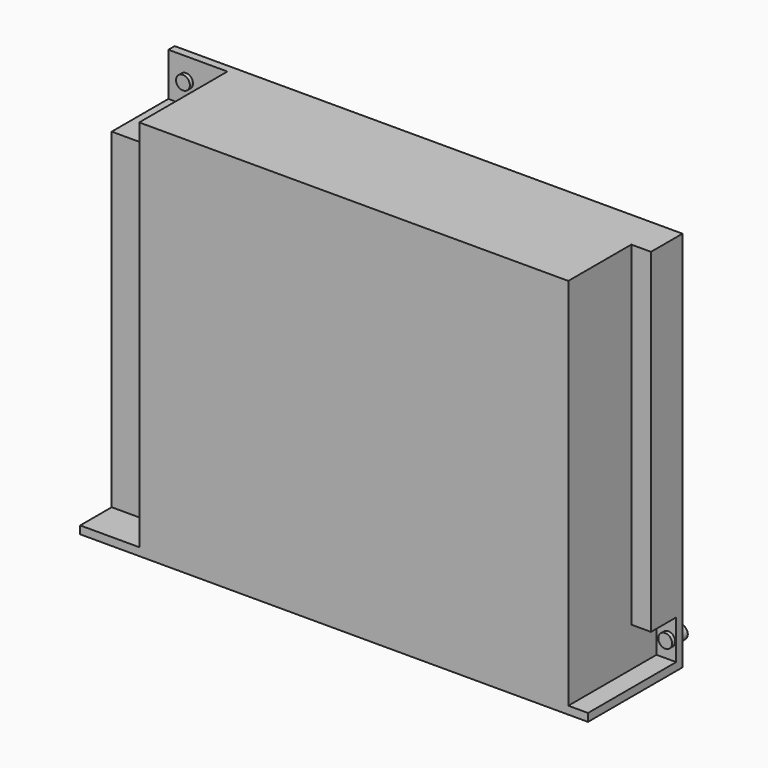
from build123d import *

# Parameters (mm, degrees)
SKETCH_W          = 129
SKETCH_H          = 97
PAD_DEPTH         = 30
BOX_W             = 15
BOX_H             = 95
BOX_DEPTH         = 10
BOX001_W          = 15
BOX001_H          = 11
BOX001_DEPTH      = 28
BOX002_W          = 5
BOX002_H          = 10
BOX002_DEPTH      = 28
BOX003_W          = 5
BOX003_H          = 85
BOX003_DEPTH      = 20
CYLINDER_R        = 1.75
CYLINDER_DEPTH    = 5
CYLINDER001_R     = 1.75
CYLINDER001_DEPTH = 5
CYLINDER002_R     = 1.75
CYLINDER002_DEPTH = 5
CYLINDER003_R     = 1.75
CYLINDER003_DEPTH = 5


with BuildPart() as part:
    # Sketch → Pad (new body)
    with BuildSketch(Plane.XZ):
        with Locations((64.5, 48.5)):
            Rectangle(SKETCH_W, SKETCH_H)
    extrude(amount=PAD_DEPTH)

    # Box → Box (cut)
    with BuildSketch(Plane(origin=(0, -20, 2), x_dir=(1, 0, 0), z_dir=(0, -1, 0))):
        with Locations((7.5, 47.5)):
            Rectangle(BOX_W, BOX_H)
    extrude(amount=BOX_DEPTH, mode=Mode.SUBTRACT)

    # Box001 → Box001 (cut)
    with BuildSketch(Plane(origin=(0, -2, 86), x_dir=(1, 0, 0), z_dir=(0, -1, 0))):
        with Locations((7.5, 5.5)):
            Rectangle(BOX001_W, BOX001_H)
    extrude(amount=BOX001_DEPTH, mode=Mode.SUBTRACT)

    # Box002 → Box002 (cut)
    with BuildSketch(Plane(origin=(124, -2, 2), x_dir=(1, 0, 0), z_dir=(0, -1, 0))):
        with Locations((2.5, 5)):
            Rectangle(BOX002_W, BOX002_H)
    extrude(amount=BOX002_DEPTH, mode=Mode.SUBTRACT)

    # Box003 → Box003 (cut)
    with BuildSketch(Plane(origin=(124, -10, 12), x_dir=(1, 0, 0), z_dir=(0, -1, 0))):
        with Locations((2.5, 42.5)):
            Rectangle(BOX003_W, BOX003_H)
    extrude(amount=BOX003_DEPTH, mode=Mode.SUBTRACT)

    # Cylinder → Cylinder (join)
    with BuildSketch(Plane(origin=(127, 2, 6.5), x_dir=(1, 0, 0), z_dir=(0, -1, 0))):
        Circle(CYLINDER_R)
    extrude(amount=CYLINDER_DEPTH)

    # Cylinder001 → Cylinder001 (join)
    with BuildSketch(Plane(origin=(4.5, 2, 91.5), x_dir=(1, 0, 0), z_dir=(0, -1, 0))):
        Circle(CYLINDER001_R)
    extrude(amount=CYLINDER001_DEPTH)

    # Cylinder002 → Cylinder002 (join)
    with BuildSketch(Plane(origin=(78, 2, 34), x_dir=(1, 0, 0), z_dir=(0, -1, 0))):
        Circle(CYLINDER002_R)
    extrude(amount=CYLINDER002_DEPTH)

    # Cylinder003 → Cylinder003 (join)
    with BuildSketch(Plane(origin=(78, 2, 67), x_dir=(1, 0, 0), z_dir=(0, -1, 0))):
        Circle(CYLINDER003_R)
    extrude(amount=CYLINDER003_DEPTH)


solid = part.part
